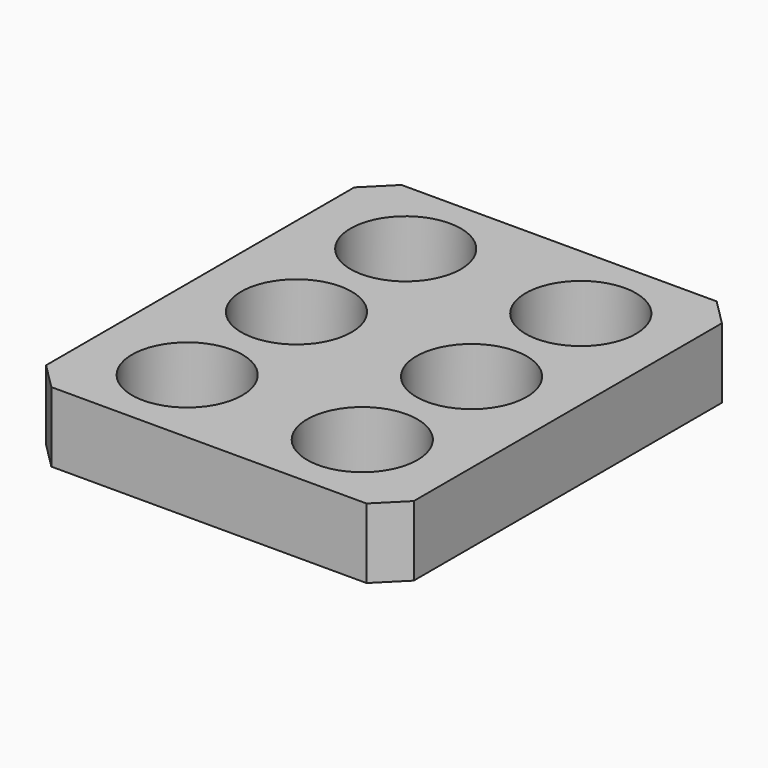
from build123d import *

# Parameters (mm, degrees)
F0_W     = 10.5
F0_H     = 12.5
F0_R     = 1.575
F1_DEPTH = 2
F2_SIZE  = 0.75


with BuildPart() as f1:
    # F0 (on Top) → F1 (new body)
    with BuildSketch(Plane.XY):
        Rectangle(F0_W, F0_H)
        with Locations((-2.5, -3.9)):
            Circle(F0_R, mode=Mode.SUBTRACT)
        with Locations((2.5, -3.9)):
            Circle(F0_R, mode=Mode.SUBTRACT)
        with Locations((-2.5, 0)):
            Circle(F0_R, mode=Mode.SUBTRACT)
        with Locations((-2.5, 3.9)):
            Circle(F0_R, mode=Mode.SUBTRACT)
        with Locations((2.5, 0)):
            Circle(F0_R, mode=Mode.SUBTRACT)
        with Locations((2.5, 3.9)):
            Circle(F0_R, mode=Mode.SUBTRACT)
    extrude(amount=F1_DEPTH)

    # F2
    f2_edges = [f1.edges().sort_by_distance(p)[0] for p in [
        (-5.25, 6.25, 1),
        (5.25, 6.25, 1),
        (5.25, -6.25, 1),
        (-5.25, -6.25, 1),
    ]]
    chamfer(f2_edges, length=F2_SIZE)


solid = f1.part
